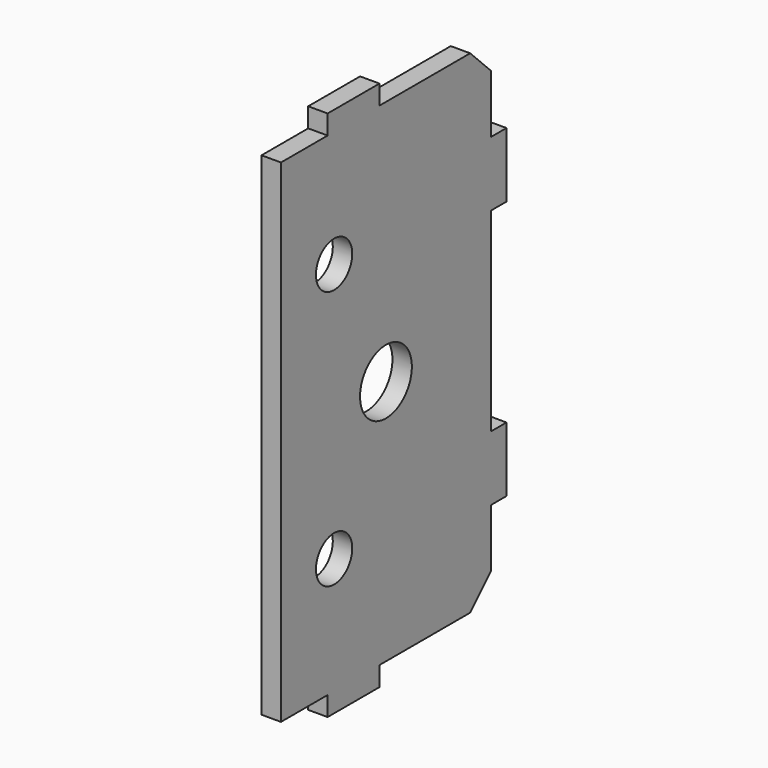
from build123d import *

# Parameters (mm, degrees)
PAD_DEPTH         = 1.5
CHAMFER_SIZE      = 4
SKETCH001_R       = 5
SKETCH001_R_2     = 3.5
POCKET_DEPTH      = 1.501
POCKET_DEPTH_BACK = -1.501


with BuildPart() as part:
    # Sketch → Pad (new body, symmetric)
    with BuildSketch(Plane.YZ):
        Polygon((-20.25, 38), (-20.25, -38), (-11.25, -38), (-11.25, -41), (-1.25, -41), (-1.25, -38), (20.25, -38), (20.25, -25), (23.25, -25), (23.25, -15), (20.25, -15), (20.25, 15), (23.25, 15), (23.25, 25), (20.25, 25), (20.25, 38), (-1.25, 38), (-1.25, 41), (-11.25, 41), (-11.25, 38), align=None)
    extrude(amount=PAD_DEPTH, both=True)

    # Chamfer
    chamfer_edges = [part.edges().sort_by_distance(p)[0] for p in [
        (0, 20.25, 38),
        (0, 20.25, -38),
    ]]
    chamfer(chamfer_edges, length=CHAMFER_SIZE)

    # Sketch001 → Pocket (cut, two sides)
    with BuildSketch(Plane.YZ) as pocket_sk:
        Circle(SKETCH001_R)
        with Locations((-10, 20)):
            Circle(SKETCH001_R_2)
        with Locations((-10, -20)):
            Circle(SKETCH001_R_2)
    extrude(amount=-POCKET_DEPTH, mode=Mode.SUBTRACT)
    extrude(pocket_sk.sketch, amount=-POCKET_DEPTH_BACK, mode=Mode.SUBTRACT)


solid = part.part
